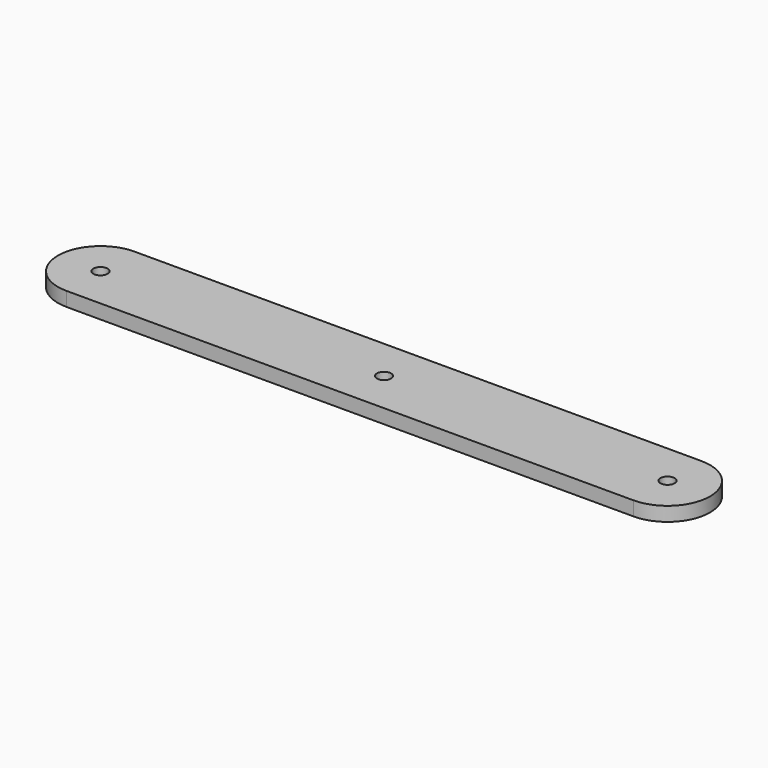
from build123d import *

# Parameters (mm, degrees)
F0_R     = 1.5875
F1_DEPTH = 3.175


with BuildPart() as f1:
    # F0 (on Top) → F1 (new body)
    with BuildSketch(Plane.XY):
        with BuildLine():
            ThreePointArc((63.5, -9.525), (73.025, 0), (63.5, 9.525))
            Line((63.5, 9.525), (-63.5, 9.525))
            ThreePointArc((-63.5, 9.525), (-73.025, 0), (-63.5, -9.525))
            Line((-63.5, -9.525), (63.5, -9.525))
        make_face()
        with Locations((-63.5, 0)):
            Circle(F0_R, mode=Mode.SUBTRACT)
        Circle(F0_R, mode=Mode.SUBTRACT)
        with Locations((63.5, 0)):
            Circle(F0_R, mode=Mode.SUBTRACT)
    extrude(amount=F1_DEPTH)


solid = f1.part
